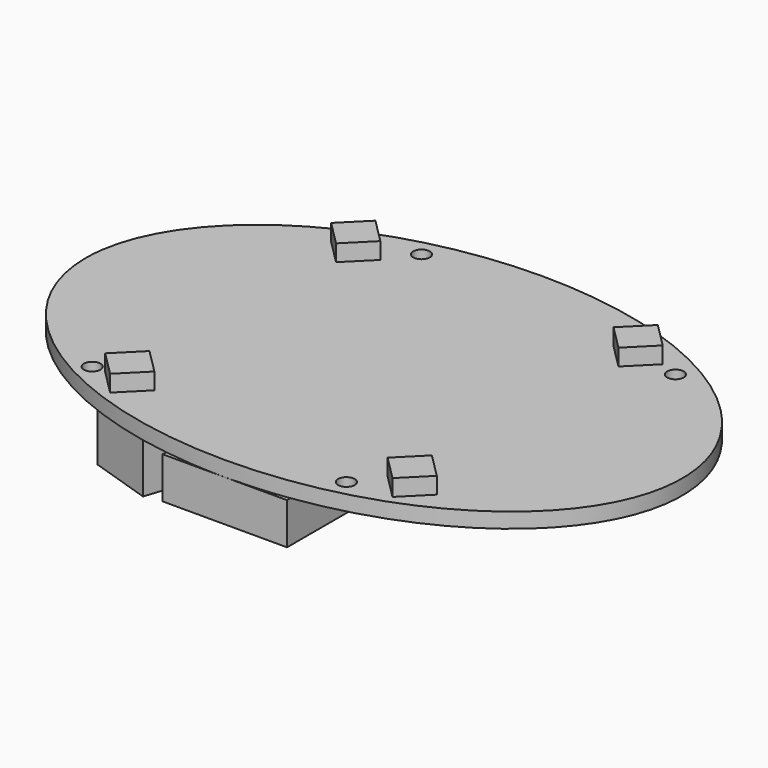
from build123d import *

# Parameters (mm, degrees)
F1_DEPTH = 0.9144
F3_DEPTH = 1
F4_W     = 7.502
F4_H     = 5.333
F5_DEPTH = 2.505
F7_DEPTH = 3.25
F8_R     = 0.5
F9_DEPTH = 25


with BuildPart() as f1:
    # F0 (on Top) → F1 (new body)
    with BuildSketch(Plane.XY):
        with BuildLine():
            add(Edge.make_bspline(
                [(-18, 0), (-18, -20.78461), (9, -10.392305), (36, 0), (9, 10.392305), (-18, 20.78461), (-18, 0)],
                knots=[0, 0, 0, 2.094395, 2.094395, 4.18879, 4.18879, 6.283185, 6.283185, 6.283185], degree=2, weights=[1, 0.5, 1, 0.5, 1, 0.5, 1]))
        make_face()
    extrude(amount=F1_DEPTH)

    # F2 (on face) → F3 (join)
    with BuildSketch(Plane.XY.offset(0.9144)):
        Polygon((8.520637, 10.005561), (7.035712, 8.520637), (8.520637, 7.035712), (10.005561, 8.520637), align=None)
        Polygon((-8.520637, 10.005561), (-10.005561, 8.520637), (-8.520637, 7.035712), (-7.035712, 8.520637), align=None)
        Polygon((-10.005561, -8.520637), (-8.520637, -10.005561), (-7.035712, -8.520637), (-8.520637, -7.035712), align=None)
        Polygon((8.520637, -10.005561), (10.005561, -8.520637), (8.520637, -7.035712), (7.035712, -8.520637), align=None)
    extrude(amount=F3_DEPTH)

    # F4 (on face) → F5 (join)
    with BuildSketch(Plane(origin=(0, 0, 0), x_dir=(1, 0, 0), z_dir=(0, 0, -1))):
        with Locations((0, 9.3335)):
            Rectangle(F4_W, F4_H)
    extrude(amount=F5_DEPTH)

    # F6 (on face) → F7 (join)
    with BuildSketch(Plane(origin=(0, 0, 0), x_dir=(1, 0, 0), z_dir=(0, 0, -1))):
        Polygon((-9.391823, 9.866078), (-8.60383, 7.440884), (-5.972807, 8.295755), (-7.537263, 10.468661), align=None)
        Polygon((-7.537263, 10.468661), (-5.972807, 8.295755), (-4.89471, 8.64605), (-5.682703, 11.071244), align=None)
    extrude(amount=F7_DEPTH)

    # F8 (on face) → F9 (cut)
    with BuildSketch(Plane.XY.offset(0.9144)):
        with Locations((-5.875, 10.175798)):
            Circle(F8_R)
        with Locations((11.123984, 8.082047)):
            Circle(F8_R)
        with Locations((5.875, -10.175798)):
            Circle(F8_R)
        with Locations((-10.835148, -8.465345)):
            Circle(F8_R)
    extrude(amount=-F9_DEPTH, mode=Mode.SUBTRACT)


solid = f1.part
